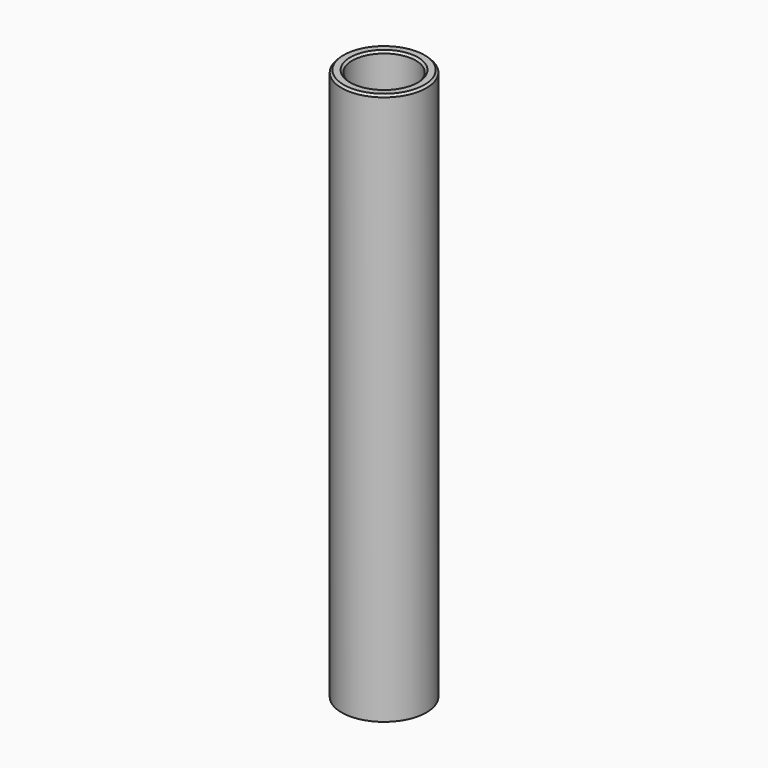
from build123d import *

# Parameters (mm, degrees)
SKETCH_R     = 20
SKETCH_R_2   = 15
PAD_DEPTH    = 260
CHAMFER_SIZE = 1


with BuildPart() as part:
    # Sketch → Pad (new body)
    with BuildSketch(Plane.XY):
        Circle(SKETCH_R)
        Circle(SKETCH_R_2, mode=Mode.SUBTRACT)
    extrude(amount=PAD_DEPTH)

    # Chamfer
    chamfer_edges = [part.edges().sort_by_distance(p)[0] for p in [
        (-15, 0, 260),
        (-20, 0, 260),
    ]]
    chamfer(chamfer_edges, length=CHAMFER_SIZE)


solid = part.part
